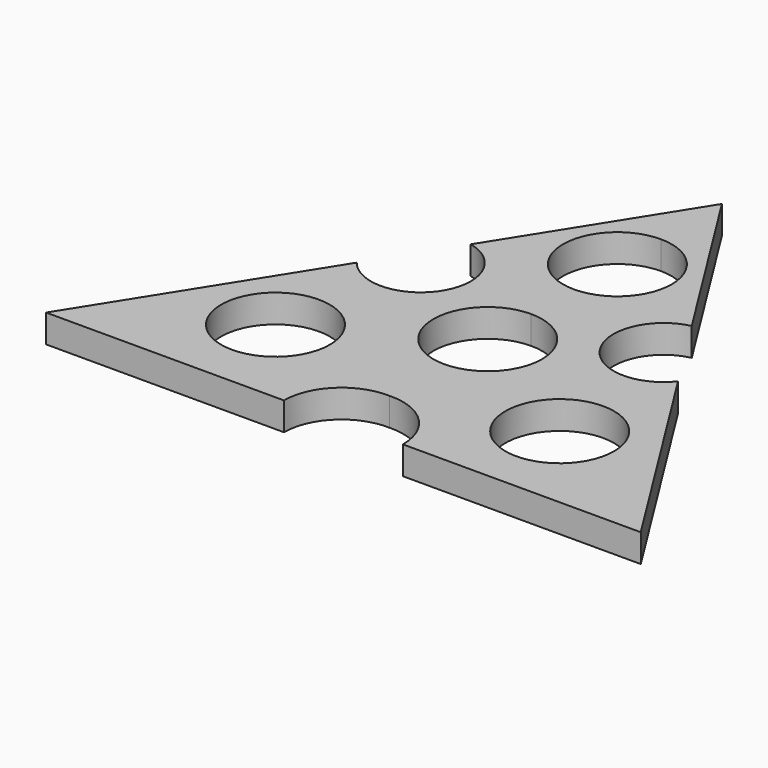
from build123d import *

# Parameters (mm, degrees)
F0_R     = 13.55
F1_DEPTH = 7


with BuildPart() as f1:
    # F0 (on Top) → F1 (new body)
    with BuildSketch(Plane.XY):
        with BuildLine():
            Line((0, 26.884781), (0, 13.55))
            ThreePointArc((0, 13.55), (9.581297, 9.581297), (13.55, 0))
            ThreePointArc((13.55, 0), (9.581297, -9.581297), (0, -13.55))
            Line((0, -13.55), (0, -30.652169))
            ThreePointArc((0, -30.652169), (10.46903, -34.671543), (14.836959, -45.000006))
            Line((14.836959, -45.000006), (74.184783, -45.000006))
            Line((74.184783, -45.000006), (40.087018, 9.256662))
            ThreePointArc((40.087018, 9.256662), (19.729223, 10.343961), (27.579512, 29.158716))
            Line((27.579512, 29.158716), (0, 73.043481))
            Line((0, 73.043481), (0, 53.984781))
            ThreePointArc((0, 53.984781), (9.581297, 50.016078), (13.55, 40.434781))
            ThreePointArc((13.55, 40.434781), (9.581297, 30.853485), (0, 26.884781))
        make_face()
        with Locations((35.223017, -21.579317)):
            Circle(F0_R, mode=Mode.SUBTRACT)
        with BuildLine():
            ThreePointArc((0, -13.55), (-13.55, 0), (0, 13.55))
            Line((0, 13.55), (0, 26.884781))
            ThreePointArc((0, 26.884781), (-13.55, 40.434781), (0, 53.984781))
            Line((0, 53.984781), (0, 73.043481))
            Line((0, 73.043481), (-27.579512, 29.158716))
            ThreePointArc((-27.579512, 29.158716), (-19.729223, 10.343961), (-40.087018, 9.256662))
            Line((-40.087018, 9.256662), (-74.184783, -45.000006))
            Line((-74.184783, -45.000006), (-14.836959, -45.000006))
            ThreePointArc((-14.836959, -45.000006), (-10.46903, -34.671543), (0, -30.652169))
            Line((0, -30.652169), (0, -13.55))
        make_face()
        with Locations((-36.094276, -21.076295)):
            Circle(F0_R, mode=Mode.SUBTRACT)
    extrude(amount=F1_DEPTH)


solid = f1.part
